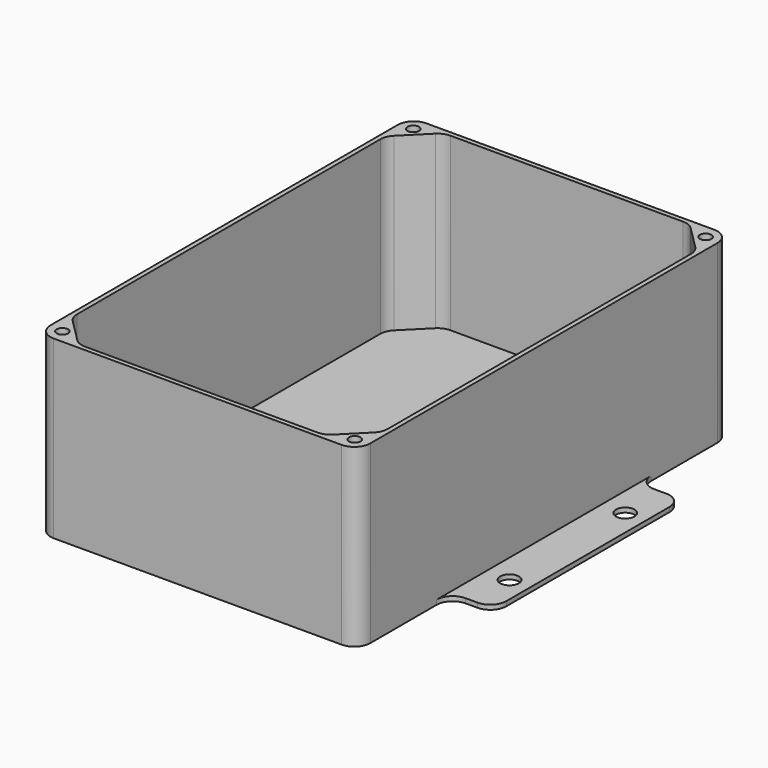
from build123d import *

# Parameters (mm, degrees)
F0_W     = 140
F0_H     = 50.3332037926
F0_H_2   = 103.3335924149
F0_W_2   = 19.2838388681
F1_DEPTH = 2
F3_DEPTH = 75
F4_R     = 7
F5_R     = 2.5
F6_DEPTH = 4
F7_R     = 4.1
F8_DEPTH = 25


with BuildPart() as f1:
    # F0 (on Top) → F1 (new body)
    with BuildSketch(Plane.XY):
        with Locations((0, 76.8333981037)):
            Rectangle(F0_W, F0_H)
        Rectangle(F0_W, F0_H_2)
        with Locations((-79.6419194341, 0)):
            Rectangle(F0_W_2, F0_H_2)
        with Locations((0, -76.8333981037)):
            Rectangle(F0_W, F0_H)
        with Locations((79.6419194341, 0)):
            Rectangle(F0_W_2, F0_H_2)
    extrude(amount=F1_DEPTH)

    # F2 (on face) → F3 (join)
    with BuildSketch(Plane.XY.offset(2)):
        Polygon((70, 51.6667962074), (70, 102), (-70, 102), (-70, 51.6667962074), (-70, -51.6667962074), (-70, -102), (70, -102), (70, -51.6667962074), align=None)
        Polygon((53.8578643763, 100), (68, 100), (68, 85.8578643763), (68, -85.8578643763), (68, -100), (53.8578643763, -100), (-53.8578643763, -100), (-68, -100), (-68, -85.8578643763), (-68, 85.8578643763), (-68, 100), (-53.8578643763, 100), align=None, mode=Mode.SUBTRACT)
        Polygon((-68, 85.8578643763), (-53.8578643763, 100), (-68, 100), align=None)
        Polygon((68, 85.8578643763), (68, 100), (53.8578643763, 100), align=None)
        Polygon((68, -100), (68, -85.8578643763), (53.8578643763, -100), align=None)
        Polygon((-53.8578643763, -100), (-68, -85.8578643763), (-68, -100), align=None)
    extrude(amount=F3_DEPTH)

    # F4
    f4_edges = [f1.edges().sort_by_distance(p)[0] for p in [
        (70, -102, 38.5),
        (70, 102, 38.5),
        (-70, 102, 38.5),
        (-70, -102, 38.5),
        (-53.857864, -100, 39.5),
        (-68, -85.857864, 39.5),
        (53.857864, -100, 39.5),
        (68, -85.857864, 39.5),
        (-68, 85.857864, 39.5),
        (-53.857864, 100, 39.5),
        (53.857864, 100, 39.5),
        (68, 85.857864, 39.5),
        (-70, 51.666796, 1),
        (-89.283839, 51.666796, 1),
        (-89.283839, -51.666796, 1),
        (-70, -51.666796, 1),
        (70, -51.666796, 1),
        (89.283839, -51.666796, 1),
        (89.283839, 51.666796, 1),
        (70, 51.666796, 1),
    ]]
    fillet(f4_edges, radius=F4_R)

    # F5 (on face) → F6 (cut)
    with BuildSketch(Plane.XY.offset(77)):
        with Locations((-64, 96)):
            Circle(F5_R)
        with Locations((64, 96)):
            Circle(F5_R)
        with Locations((64, -96)):
            Circle(F5_R)
        with Locations((-64, -96)):
            Circle(F5_R)
    extrude(amount=-F6_DEPTH, mode=Mode.SUBTRACT)

    # F7 (on face) → F8 (cut)
    with BuildSketch(Plane.XY.offset(2)):
        with Locations((-80.2838388681, 31.6667962074)):
            Circle(F7_R)
        with Locations((-80.2838388681, -31.6667962074)):
            Circle(F7_R)
        with Locations((80.2838388681, -31.6667962074)):
            Circle(F7_R)
        with Locations((80.2838388681, 31.6667962074)):
            Circle(F7_R)
    extrude(amount=-F8_DEPTH, mode=Mode.SUBTRACT)


solid = f1.part
